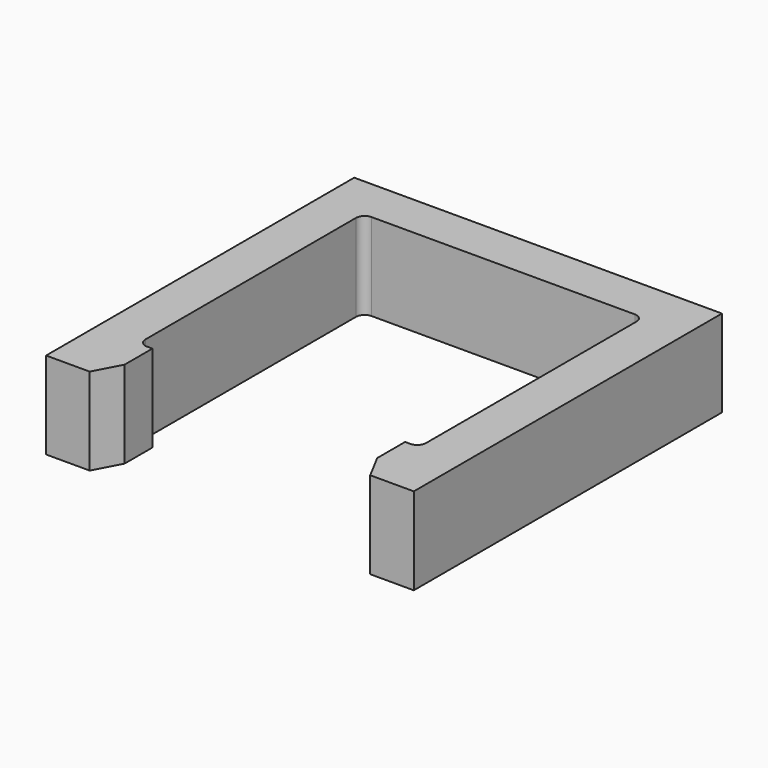
from build123d import *

# Parameters (mm, degrees)
F1_DEPTH = 12.7
F2_R     = 1.27


with BuildPart() as f1:
    # F0 (on Top) → F1 (new body)
    with BuildSketch(Plane.XY):
        Polygon((20.447, 20.447), (20.447, -20.447), (20.447, -29.337), (26.797, -29.337), (26.797, 26.797), (-26.797, 26.797), (-26.797, 20.447), (-26.797, -29.337), (-20.447, -29.337), (-20.447, -20.447), (-20.447, 20.447), align=None)
        Polygon((-18.415, -25.527), (-18.415, -20.447), (-20.447, -20.447), (-20.447, -29.337), align=None)
        Polygon((20.447, -29.337), (20.447, -20.447), (18.415, -20.447), (18.415, -25.527), align=None)
    extrude(amount=F1_DEPTH)

    # F2
    f2_edges = [f1.edges().sort_by_distance(p)[0] for p in [
        (-20.447, 20.447, 6.35),
        (20.447, 20.447, 6.35),
        (-20.447, -20.447, 6.35),
        (20.447, -20.447, 6.35),
    ]]
    fillet(f2_edges, radius=F2_R)


solid = f1.part
